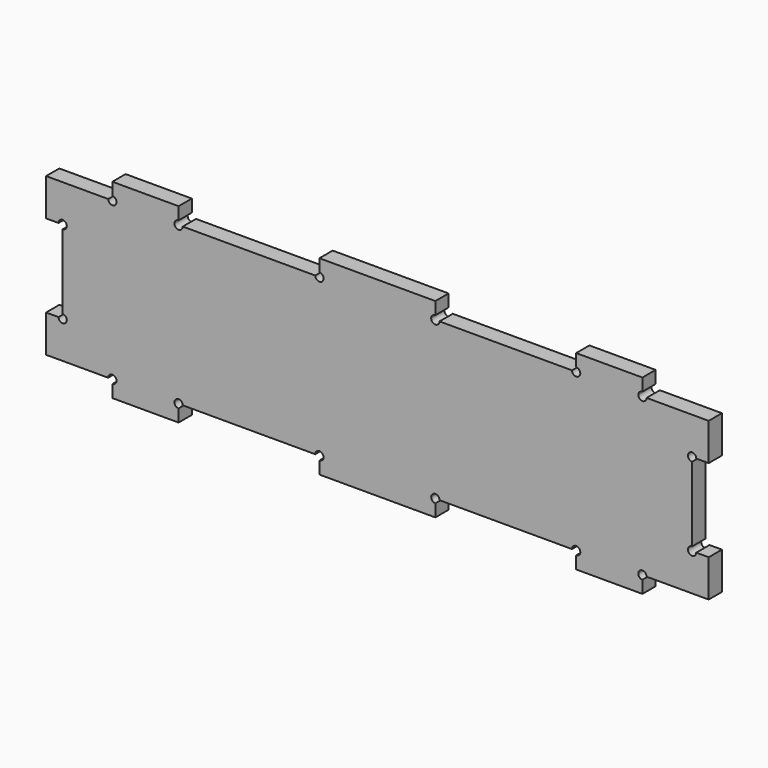
from build123d import *

# Parameters (mm, degrees)
F1_DEPTH = 6.35


with BuildPart() as f1:
    # F0 (on Front) → F1 (new body)
    with BuildSketch(Plane.XZ):
        with BuildLine():
            ThreePointArc((-96.566791, 22.286435), (-95.444259, 21.821467), (-94.979291, 20.698935))
            Line((-94.979291, 20.698935), (-72.754291, 20.698935))
            ThreePointArc((-72.754291, 20.698935), (-72.289323, 21.821467), (-71.166791, 22.286435))
            Line((-71.166791, 22.286435), (-71.166791, 27.048935))
            Line((-71.166791, 27.048935), (-96.566791, 27.048935))
            Line((-96.566791, 27.048935), (-96.566791, 22.286435))
        make_face()
        with BuildLine():
            Line((-72.754291, 20.698935), (-94.979291, 20.698935))
            ThreePointArc((-94.979291, 20.698935), (-96.566791, 19.111435), (-98.154291, 20.698935))
            Line((-98.154291, 20.698935), (-121.966791, 20.698935))
            Line((-121.966791, 20.698935), (-121.966791, 6.411435))
            Line((-121.966791, 6.411435), (-117.204291, 6.411435))
            ThreePointArc((-117.204291, 6.411435), (-115.616791, 7.998935), (-114.029291, 6.411435))
            ThreePointArc((-114.029291, 6.411435), (-114.494259, 5.288903), (-115.616791, 4.823935))
            Line((-115.616791, 4.823935), (-115.616791, -23.751065))
            ThreePointArc((-115.616791, -23.751065), (-114.494259, -24.216033), (-114.029291, -25.338565))
            ThreePointArc((-114.029291, -25.338565), (-115.616791, -26.926065), (-117.204291, -25.338565))
            Line((-117.204291, -25.338565), (-121.966791, -25.338565))
            Line((-121.966791, -25.338565), (-121.966791, -39.626065))
            Line((-121.966791, -39.626065), (-98.154291, -39.626065))
            ThreePointArc((-98.154291, -39.626065), (-96.566791, -38.038565), (-94.979291, -39.626065))
            Line((-94.979291, -39.626065), (-72.754291, -39.626065))
            ThreePointArc((-72.754291, -39.626065), (-71.166791, -38.038565), (-69.579291, -39.626065))
            Line((-69.579291, -39.626065), (-18.779291, -39.626065))
            ThreePointArc((-18.779291, -39.626065), (-17.191791, -38.038565), (-15.604291, -39.626065))
            Line((-15.604291, -39.626065), (25.670709, -39.626065))
            ThreePointArc((25.670709, -39.626065), (27.258209, -38.038565), (28.845709, -39.626065))
            Line((28.845709, -39.626065), (79.645709, -39.626065))
            ThreePointArc((79.645709, -39.626065), (81.233209, -38.038565), (82.820709, -39.626065))
            Line((82.820709, -39.626065), (105.045709, -39.626065))
            ThreePointArc((105.045709, -39.626065), (106.633209, -38.038565), (108.220709, -39.626065))
            Line((108.220709, -39.626065), (132.033209, -39.626065))
            Line((132.033209, -39.626065), (132.033209, -25.338565))
            Line((132.033209, -25.338565), (127.270709, -25.338565))
            ThreePointArc((127.270709, -25.338565), (124.560677, -26.461097), (125.683209, -23.751065))
            Line((125.683209, -23.751065), (125.683209, 4.823935))
            ThreePointArc((125.683209, 4.823935), (124.560677, 7.533967), (127.270709, 6.411435))
            Line((127.270709, 6.411435), (132.033209, 6.411435))
            Line((132.033209, 6.411435), (132.033209, 20.698935))
            Line((132.033209, 20.698935), (108.220709, 20.698935))
            ThreePointArc((108.220709, 20.698935), (106.633209, 19.111435), (105.045709, 20.698935))
            Line((105.045709, 20.698935), (82.820709, 20.698935))
            ThreePointArc((82.820709, 20.698935), (81.233209, 19.111435), (79.645709, 20.698935))
            Line((79.645709, 20.698935), (28.845709, 20.698935))
            ThreePointArc((28.845709, 20.698935), (27.258209, 19.111435), (25.670709, 20.698935))
            Line((25.670709, 20.698935), (-15.604291, 20.698935))
            ThreePointArc((-15.604291, 20.698935), (-17.191791, 19.111435), (-18.779291, 20.698935))
            Line((-18.779291, 20.698935), (-69.579291, 20.698935))
            ThreePointArc((-69.579291, 20.698935), (-71.166791, 19.111435), (-72.754291, 20.698935))
        make_face()
        with BuildLine():
            Line((-17.191791, 27.048935), (-17.191791, 22.286435))
            ThreePointArc((-17.191791, 22.286435), (-16.069259, 21.821467), (-15.604291, 20.698935))
            Line((-15.604291, 20.698935), (25.670709, 20.698935))
            ThreePointArc((25.670709, 20.698935), (26.135677, 21.821467), (27.258209, 22.286435))
            Line((27.258209, 22.286435), (27.258209, 27.048935))
            Line((27.258209, 27.048935), (-17.191791, 27.048935))
        make_face()
        with BuildLine():
            Line((81.233209, 27.048935), (81.233209, 22.286435))
            ThreePointArc((81.233209, 22.286435), (82.355741, 21.821467), (82.820709, 20.698935))
            Line((82.820709, 20.698935), (105.045709, 20.698935))
            ThreePointArc((105.045709, 20.698935), (105.510677, 21.821467), (106.633209, 22.286435))
            Line((106.633209, 22.286435), (106.633209, 27.048935))
            Line((106.633209, 27.048935), (81.233209, 27.048935))
        make_face()
        with BuildLine():
            Line((105.045709, -39.626065), (82.820709, -39.626065))
            ThreePointArc((82.820709, -39.626065), (82.355741, -40.748597), (81.233209, -41.213565))
            Line((81.233209, -41.213565), (81.233209, -45.976065))
            Line((81.233209, -45.976065), (106.633209, -45.976065))
            Line((106.633209, -45.976065), (106.633209, -41.213565))
            ThreePointArc((106.633209, -41.213565), (105.510677, -40.748597), (105.045709, -39.626065))
        make_face()
        with BuildLine():
            Line((25.670709, -39.626065), (-15.604291, -39.626065))
            ThreePointArc((-15.604291, -39.626065), (-16.069259, -40.748597), (-17.191791, -41.213565))
            Line((-17.191791, -41.213565), (-17.191791, -45.976065))
            Line((-17.191791, -45.976065), (27.258209, -45.976065))
            Line((27.258209, -45.976065), (27.258209, -41.213565))
            ThreePointArc((27.258209, -41.213565), (26.135677, -40.748597), (25.670709, -39.626065))
        make_face()
        with BuildLine():
            Line((-72.754291, -39.626065), (-94.979291, -39.626065))
            ThreePointArc((-94.979291, -39.626065), (-95.444259, -40.748597), (-96.566791, -41.213565))
            Line((-96.566791, -41.213565), (-96.566791, -45.976065))
            Line((-96.566791, -45.976065), (-71.166791, -45.976065))
            Line((-71.166791, -45.976065), (-71.166791, -41.213565))
            ThreePointArc((-71.166791, -41.213565), (-72.289323, -40.748597), (-72.754291, -39.626065))
        make_face()
    extrude(amount=F1_DEPTH)


solid = f1.part
